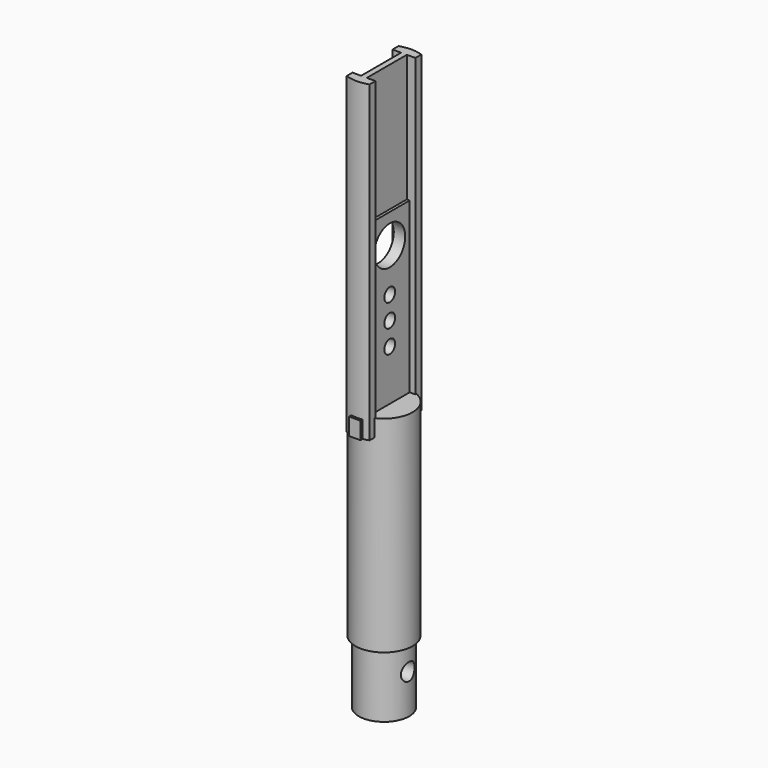
from build123d import *

# Parameters (mm, degrees)
BOX002_W          = 1
BOX002_H          = 6.4
BOX002_DEPTH      = 1.5
BOX006_W          = 10
BOX006_H          = 4.37
BOX006_DEPTH      = 12
BOX005_W          = 10
BOX005_H          = 4.37
BOX005_DEPTH      = 12
CYLINDER008_R     = 0.59
CYLINDER008_DEPTH = 50
CYLINDER009_R     = 0.59
CYLINDER009_DEPTH = 50
CYLINDER007_R     = 0.59
CYLINDER007_DEPTH = 50
BOX003_W          = 10
BOX003_H          = 4.37
BOX003_DEPTH      = 26
BOX004_W          = 10
BOX004_H          = 4.37
BOX004_DEPTH      = 26
BOX001_W          = 10
BOX001_H          = 5.5
BOX001_DEPTH      = 27
CYLINDER006_R     = 1.695
CYLINDER006_DEPTH = 20
CYLINDER003_R     = 1.1
CYLINDER003_DEPTH = 2
BOX_W             = 2
BOX_H             = 10
BOX_DEPTH         = 27.9
CYLINDER004_R     = 3
CYLINDER004_DEPTH = 27.4
CYLINDER005_R     = 1
CYLINDER005_DEPTH = 5.5
CYLINDER002_R     = 0.75
CYLINDER002_DEPTH = 6.2
CYLINDER001_R     = 2.5
CYLINDER001_DEPTH = 18
CYLINDER_R        = 2.2
CYLINDER_DEPTH    = 21.5


with BuildPart() as obj1:
    # Box002 → Box002 (new body)
    with BuildSketch(Plane(origin=(-0.5, -3.2, 21.5), x_dir=(1, 0, 0), z_dir=(0, 0, 1))):
        with Locations((0.5, 3.2)):
            Rectangle(BOX002_W, BOX002_H)
    extrude(amount=BOX002_DEPTH)


with BuildPart() as obj2:
    # Box006 → Box006 (new body)
    with BuildSketch(Plane(origin=(-10.25, -2.19, 36.77), x_dir=(1, 0, 0), z_dir=(0, 0, 1))):
        with Locations((5, 2.185)):
            Rectangle(BOX006_W, BOX006_H)
    extrude(amount=BOX006_DEPTH)


with BuildPart() as fusion004:
    # Box005 → Box005 (new body)
    with BuildSketch(Plane(origin=(0.25, -2.19, 36.77), x_dir=(1, 0, 0), z_dir=(0, 0, 1))):
        with Locations((5, 2.185)):
            Rectangle(BOX005_W, BOX005_H)
    extrude(amount=BOX005_DEPTH)

    # Fusion004: union obj2
    add(obj2.part)


with BuildPart() as fusion004_1:
    # Fusion004 placement: moved
    add(fusion004.part.moved(Location((0, 0, 1))))


with BuildPart() as m1_6_thread2:
    # Cylinder008 → Cylinder008 (new body)
    with BuildSketch(Plane(origin=(-4, 0, 29.41), x_dir=(0, 0, -1), z_dir=(1, 0, 0))):
        Circle(CYLINDER008_R)
    extrude(amount=CYLINDER008_DEPTH)


with BuildPart() as m1_6_thread3:
    # Cylinder009 → Cylinder009 (new body)
    with BuildSketch(Plane(origin=(-4, 0, 27.41), x_dir=(0, 0, -1), z_dir=(1, 0, 0))):
        Circle(CYLINDER009_R)
    extrude(amount=CYLINDER009_DEPTH)


with BuildPart() as mirrormountingholes:
    # Cylinder007 → Cylinder007 (new body)
    with BuildSketch(Plane(origin=(-4, 0, 31.405), x_dir=(0, 0, -1), z_dir=(1, 0, 0))):
        Circle(CYLINDER007_R)
    extrude(amount=CYLINDER007_DEPTH)

    # Fusion003: union M1_6__Thread2, M1_6__Thread3
    add(m1_6_thread2.part)
    add(m1_6_thread3.part)


with BuildPart() as obj3:
    # Box003 → Box003 (new body)
    with BuildSketch(Plane(origin=(0.5, -2.19, 23), x_dir=(1, 0, 0), z_dir=(0, 0, 1))):
        with Locations((5, 2.185)):
            Rectangle(BOX003_W, BOX003_H)
    extrude(amount=BOX003_DEPTH)


with BuildPart() as mirrorgrooves:
    # Box004 → Box004 (new body)
    with BuildSketch(Plane(origin=(-10.5, -2.19, 23), x_dir=(1, 0, 0), z_dir=(0, 0, 1))):
        with Locations((5, 2.185)):
            Rectangle(BOX004_W, BOX004_H)
    extrude(amount=BOX004_DEPTH)

    # Fusion002: union obj3
    add(obj3.part)


with BuildPart() as obj4:
    # Box001 → Box001 (new body)
    with BuildSketch(Plane(origin=(1, -2.57, 21), x_dir=(1, 0, 0), z_dir=(0, 0, 1))):
        with Locations((5, 2.75)):
            Rectangle(BOX001_W, BOX001_H)
    extrude(amount=BOX001_DEPTH)


with BuildPart() as probehole:
    # Cylinder006 → Cylinder006 (new body)
    with BuildSketch(Plane(origin=(-4, 0, 35.2), x_dir=(0, 0, -1), z_dir=(1, 0, 0))):
        Circle(CYLINDER006_R)
    extrude(amount=CYLINDER006_DEPTH)


with BuildPart() as beamhole:
    # Cylinder003 → Cylinder003 (new body)
    with BuildSketch(Plane(origin=(-1, 0, 35.2), x_dir=(0, 0, -1), z_dir=(1, 0, 0))):
        Circle(CYLINDER003_R)
    extrude(amount=CYLINDER003_DEPTH)


with BuildPart() as obj5:
    # Box → Box (new body)
    with BuildSketch(Plane(origin=(-1, -5, 21), x_dir=(1, 0, 0), z_dir=(0, 0, 1))):
        with Locations((1, 5)):
            Rectangle(BOX_W, BOX_H)
    extrude(amount=BOX_DEPTH)


with BuildPart() as cut004:
    # Cylinder004 → Cylinder004 (new body)
    with BuildSketch(Plane.XY.offset(21.5)):
        Circle(CYLINDER004_R)
    extrude(amount=CYLINDER004_DEPTH)

    # Common: intersect obj5
    add(obj5.part, mode=Mode.INTERSECT)

    # Cut001: cut BeamHole
    add(beamhole.part, mode=Mode.SUBTRACT)

    # Cut003: cut ProbeHole
    add(probehole.part, mode=Mode.SUBTRACT)

    # Cut004: cut obj4
    add(obj4.part, mode=Mode.SUBTRACT)


with BuildPart() as zylinder005:
    # Cylinder005 → Cylinder005 (new body)
    with BuildSketch(Plane.XY.offset(-0.5)):
        Circle(CYLINDER005_R)
    extrude(amount=CYLINDER005_DEPTH)


with BuildPart() as zylinder002:
    # Cylinder002 → Cylinder002 (new body)
    with BuildSketch(Plane(origin=(-3.25, 0, 2.95), x_dir=(0, 0, -1), z_dir=(1, 0, 0))):
        Circle(CYLINDER002_R)
    extrude(amount=CYLINDER002_DEPTH)


with BuildPart() as zylinder001:
    # Cylinder001 → Cylinder001 (new body)
    with BuildSketch(Plane.XY.offset(5)):
        Circle(CYLINDER001_R)
    extrude(amount=CYLINDER001_DEPTH)


with BuildPart() as fusion005:
    # Cylinder → Cylinder (new body)
    with BuildSketch(Plane.XY.offset(-0.5)):
        Circle(CYLINDER_R)
    extrude(amount=CYLINDER_DEPTH)

    # Fusion: union Zylinder001
    add(zylinder001.part)

    # Cut: cut Zylinder002
    add(zylinder002.part, mode=Mode.SUBTRACT)

    # Cut002: cut Zylinder005
    add(zylinder005.part, mode=Mode.SUBTRACT)

    # Fusion001: union Cut004
    add(cut004.part)

    # Cut005: cut MirrorGrooves
    add(mirrorgrooves.part, mode=Mode.SUBTRACT)

    # Cut006: cut MirrorMountingHoles
    add(mirrormountingholes.part, mode=Mode.SUBTRACT)

    # Cut007: cut Fusion004
    add(fusion004_1.part, mode=Mode.SUBTRACT)

    # Fusion005: union obj1
    add(obj1.part)


solid = fusion005.part
